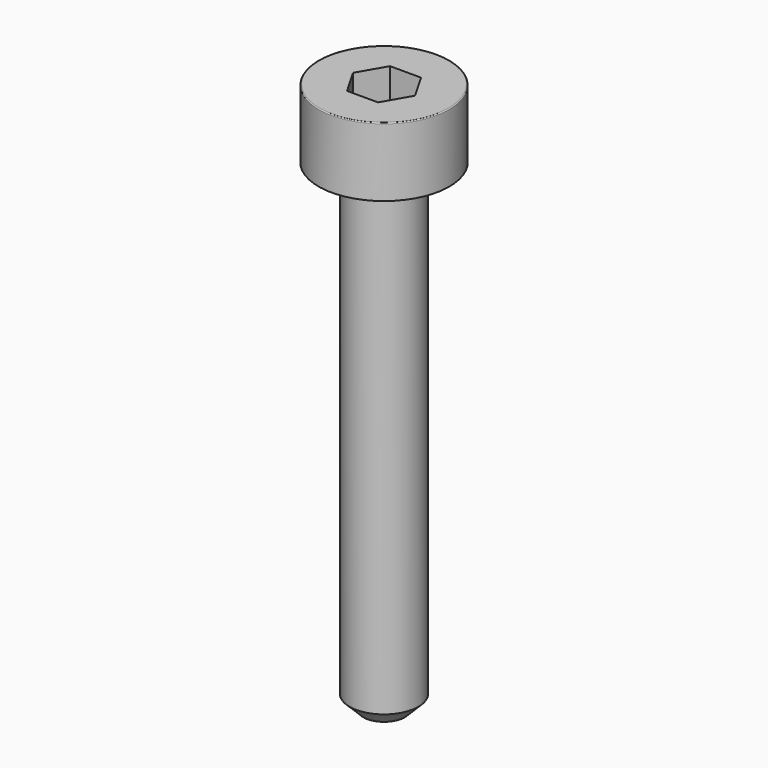
from build123d import *

# Parameters (mm, degrees)
POCKET_DEPTH = 1.56


with BuildPart() as part:
    # Sketch → Revolve (revolve)
    with BuildSketch(Plane.YZ):
        with BuildLine():
            Line((0.999, 0), (1.9, 0))
            Line((1.9, 0), (1.9, 1.97229))
            ThreePointArc((1.9, 1.97229), (1.891884, 1.991884), (1.87229, 2))
            Line((1.87229, 2), (0, 2))
            Line((0, -14), (0, 2))
            Line((0.6, -14), (0, -14))
            Line((1, -13.6), (0.6, -14))
            Line((1, -0.2), (1, -13.6))
            Line((0.999, 0), (1, -0.2))
        make_face()
    revolve(axis=Axis((0, 0, 0), (0, 0, 1)))

    # Sketch001 → Pocket (cut)
    with BuildSketch(Plane.XY.offset(2)):
        Polygon((0.900666, 0), (0.450333, 0.78), (-0.450333, 0.78), (-0.900666, 0), (-0.450333, -0.78), (0.450333, -0.78), align=None)
    extrude(amount=-POCKET_DEPTH, mode=Mode.SUBTRACT)


solid = part.part
